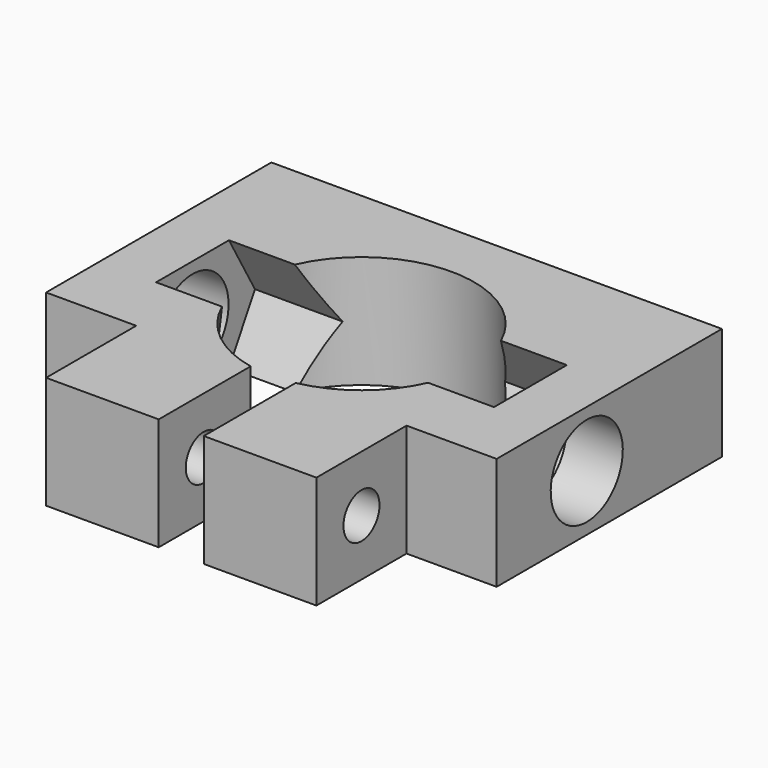
from build123d import *

# Parameters (mm, degrees)
CYLINDER_R              = 10
CYLINDER_DEPTH          = 10
CYLINDER001_R           = 2
CYLINDER001_DEPTH       = 30
PAD001_DEPTH            = 30
CYLINDER002_R           = 4
CYLINDER002_DEPTH       = 40
CYLINDER002_PITCH_ANGLE = 90
BOX003_W                = 8
BOX003_H                = 10
BOX003_DEPTH            = 10
BOX002_W                = 8
BOX002_H                = 10
BOX002_DEPTH            = 10
BOX001_W                = 4
BOX001_H                = 12
BOX001_DEPTH            = 10
BOX_W                   = 40
BOX_H                   = 35
BOX_DEPTH               = 10


with BuildPart() as cylinder:
    # Cylinder → Cylinder (new body)
    with BuildSketch(Plane.XY.offset(-5)):
        Circle(CYLINDER_R)
    extrude(amount=CYLINDER_DEPTH)


with BuildPart() as cylinder001:
    # Cylinder001 → Cylinder001 (new body)
    with BuildSketch(Plane(origin=(-15, -15, 0), x_dir=(0, -1, 0), z_dir=(1, 0, 0))):
        Circle(CYLINDER001_R)
    extrude(amount=CYLINDER001_DEPTH)


with BuildPart() as other_nut:
    # Sketch001 → Pad001 (new body)
    with BuildSketch(Plane.YZ):
        Polygon((3.464102, 6), (-3.464102, 6), (-6.928203, 0), (-3.464102, -6), (3.464102, -6), (6.928203, 0), align=None)
    extrude(amount=-PAD001_DEPTH)


with BuildPart() as other_nut_1:
    # Body001 placement: moved
    add(other_nut.part.moved(Location((15, 0, 0))))


with BuildPart() as other_screw:
    # Cylinder002 → Cylinder002 (new body)
    with BuildSketch(Plane.XY):
        Circle(CYLINDER002_R)
    extrude(amount=CYLINDER002_DEPTH)


with BuildPart() as other_screw_1:
    # Cylinder002 pitch: moved
    add(other_screw.part.rotate(Axis((0, 0, 0), (0, 1, 0)), CYLINDER002_PITCH_ANGLE))


with BuildPart() as other_screw_2:
    # Cylinder002 placement: moved
    add(other_screw_1.part.moved(Location((-20, 0, 0))))


with BuildPart() as cube003:
    # Box003 → Box003 (new body)
    with BuildSketch(Plane(origin=(-20, -20, -5), x_dir=(1, 0, 0), z_dir=(0, 0, 1))):
        with Locations((4, 5)):
            Rectangle(BOX003_W, BOX003_H)
    extrude(amount=BOX003_DEPTH)


with BuildPart() as cube002:
    # Box002 → Box002 (new body)
    with BuildSketch(Plane(origin=(12, -20, -5), x_dir=(1, 0, 0), z_dir=(0, 0, 1))):
        with Locations((4, 5)):
            Rectangle(BOX002_W, BOX002_H)
    extrude(amount=BOX002_DEPTH)


with BuildPart() as negative_fusion:
    # Box001 → Box001 (new body)
    with BuildSketch(Plane(origin=(-2, -20, -5), x_dir=(1, 0, 0), z_dir=(0, 0, 1))):
        with Locations((2, 6)):
            Rectangle(BOX001_W, BOX001_H)
    extrude(amount=BOX001_DEPTH)

    # Fusion: union Cylinder, Cylinder001, Other Nut, Other Screw, Cube003, Cube002
    add(cylinder.part)
    add(cylinder001.part)
    add(other_nut_1.part)
    add(other_screw_2.part)
    add(cube003.part)
    add(cube002.part)


with BuildPart() as cut:
    # Box → Box (new body)
    with BuildSketch(Plane(origin=(-20, -20, -5), x_dir=(1, 0, 0), z_dir=(0, 0, 1))):
        with Locations((20, 17.5)):
            Rectangle(BOX_W, BOX_H)
    extrude(amount=BOX_DEPTH)

    # Cut: cut Negative Fusion
    add(negative_fusion.part, mode=Mode.SUBTRACT)


solid = cut.part
